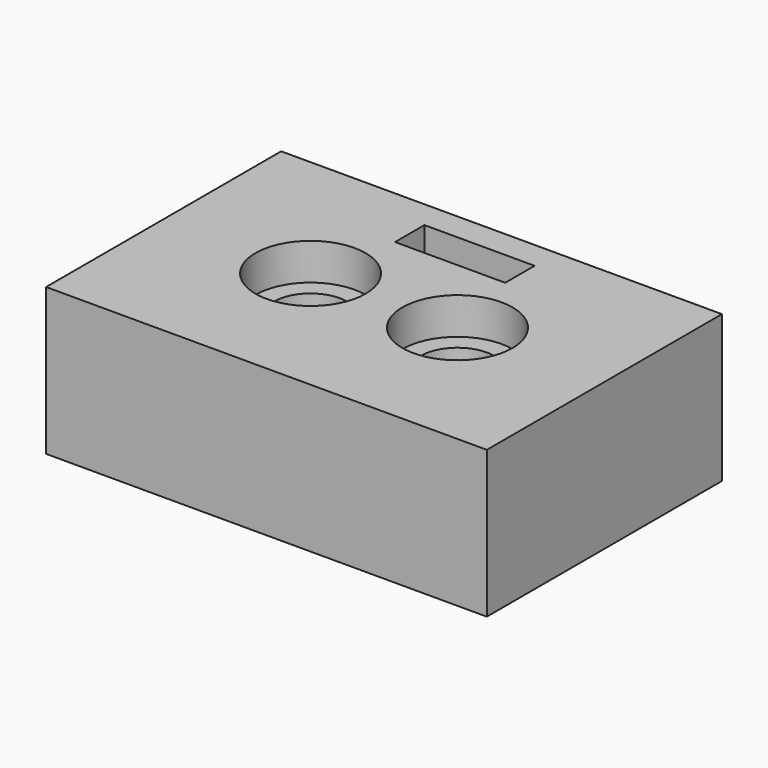
from build123d import *

# Parameters (mm, degrees)
F0_W           = 76.2
F0_H           = 25.4
F1_DEPTH       = 50.8
F3_D           = 12.7
F3_CBORE_D     = 19.05
F3_CBORE_DEPTH = 6.35
F4_W           = 19.05
F4_H           = 6.35
F5_DEPTH       = 9.525


with BuildPart() as f1:
    # F0 (on Front) → F1 (new body)
    with BuildSketch(Plane.XZ):
        with Locations((38.1, 12.7)):
            Rectangle(F0_W, F0_H)
    extrude(amount=F1_DEPTH)

    # F3 (through all)
    with Locations(Plane.XY.offset(25.4)):
        with Locations((25.4, -25.4), (50.8, -25.4)):
            CounterBoreHole(F3_D / 2, F3_CBORE_D / 2, F3_CBORE_DEPTH)

    # F4 (on face) → F5 (cut)
    with BuildSketch(Plane.XY.offset(25.4)):
        with Locations((38.1, -7.9375)):
            Rectangle(F4_W, F4_H)
    extrude(amount=-F5_DEPTH, mode=Mode.SUBTRACT)


solid = f1.part
